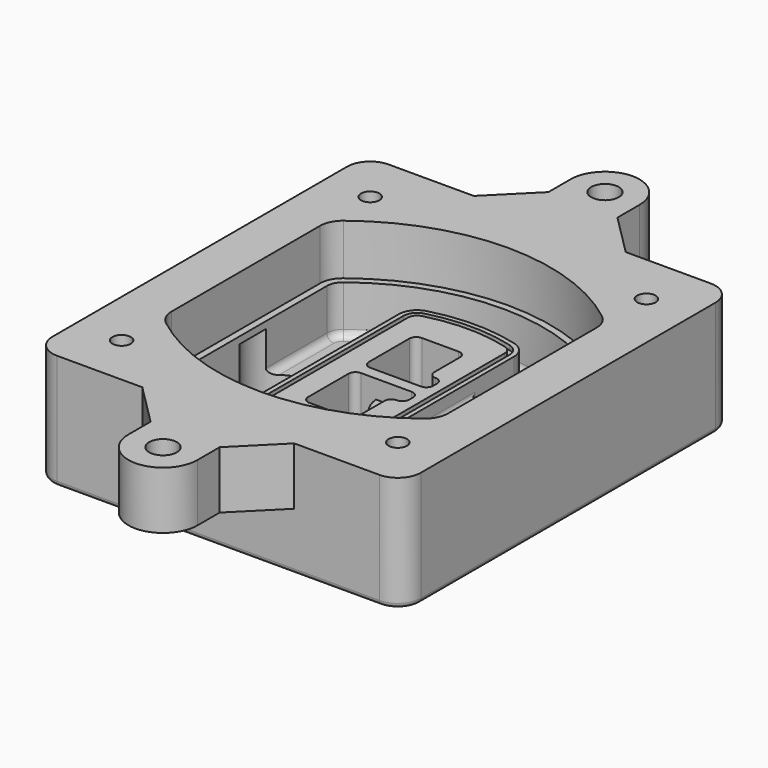
from build123d import *

# Parameters (mm, degrees)
F0_R      = 4
F1_DEPTH  = 25
F2_DEPTH  = 3
F3_DEPTH  = 18
F5_DEPTH  = 21
F6_DEPTH  = 2
F8_DEPTH  = 20
F9_DEPTH  = 16
F10_DEPTH = 25
F7_R      = 6
F7_R_2    = 4
F11_DEPTH = 6
F13_DEPTH = 9
F14_R     = 3
F15_R     = 2
F16_R     = 4
F16_R_2   = 6
F18_DEPTH = 25


with BuildPart() as f1:
    # F0 (on Top) → F1 (new body)
    with BuildSketch(Plane.XY):
        with BuildLine():
            ThreePointArc((-80, -80), (-77.0710678119, -87.0710678119), (-70, -90))
            Line((-70, -90), (70, -90))
            ThreePointArc((70, -90), (77.0710678119, -87.0710678119), (80, -80))
            Line((80, -80), (80, 80))
            ThreePointArc((80, 80), (77.0710678119, 87.0710678119), (70, 90))
            Line((70, 90), (-70, 90))
            ThreePointArc((-70, 90), (-77.0710678119, 87.0710678119), (-80, 80))
            Line((-80, 80), (-80, -80))
        make_face()
        with Locations((-60, -67.5)):
            Circle(F0_R, mode=Mode.SUBTRACT)
        with Locations((60, -67.5)):
            Circle(F0_R, mode=Mode.SUBTRACT)
        with Locations((-60, 67.5)):
            Circle(F0_R, mode=Mode.SUBTRACT)
        with BuildLine():
            ThreePointArc((-64, 40.2934422872), (-62.5820384798, 46.4328484224), (-58.6153846154, 51.3286200352))
            ThreePointArc((-58.6153846154, 51.3286200352), (0, 71.5), (58.6153846154, 51.3286200352))
            ThreePointArc((58.6153846154, 51.3286200352), (62.5820384798, 46.4328484224), (64, 40.2934422872))
            Line((64, 40.2934422872), (64, -40.2934422872))
            ThreePointArc((64, -40.2934422872), (62.5820384798, -46.4328484224), (58.6153846154, -51.3286200352))
            ThreePointArc((58.6153846154, -51.3286200352), (0, -71.5), (-58.6153846154, -51.3286200352))
            ThreePointArc((-58.6153846154, -51.3286200352), (-62.5820384798, -46.4328484224), (-64, -40.2934422872))
            Line((-64, -40.2934422872), (-64, 40.2934422872))
        make_face(mode=Mode.SUBTRACT)
        with Locations((60, 67.5)):
            Circle(F0_R, mode=Mode.SUBTRACT)
        with BuildLine():
            ThreePointArc((58.6153846154, 51.3286200352), (0, 71.5), (-58.6153846154, 51.3286200352))
            ThreePointArc((-58.6153846154, 51.3286200352), (-62.5820384798, 46.4328484224), (-64, 40.2934422872))
            Line((-64, 40.2934422872), (-64, -40.2934422872))
            ThreePointArc((-64, -40.2934422872), (-62.5820384798, -46.4328484224), (-58.6153846154, -51.3286200352))
            ThreePointArc((-58.6153846154, -51.3286200352), (0, -71.5), (58.6153846154, -51.3286200352))
            ThreePointArc((58.6153846154, -51.3286200352), (62.5820384798, -46.4328484224), (64, -40.2934422872))
            Line((64, -40.2934422872), (64, 40.2934422872))
            ThreePointArc((64, 40.2934422872), (62.5820384798, 46.4328484224), (58.6153846154, 51.3286200352))
        make_face()
        with BuildLine():
            Line((-60, -40.2934422872), (-60, 40.2934422872))
            ThreePointArc((-60, 40.2934422872), (-58.9871703427, 44.6787323838), (-56.1538461538, 48.1757121072))
            ThreePointArc((-56.1538461538, 48.1757121072), (0, 67.5), (56.1538461538, 48.1757121072))
            ThreePointArc((56.1538461538, 48.1757121072), (58.9871703427, 44.6787323838), (60, 40.2934422872))
            Line((60, 40.2934422872), (60, -40.2934422872))
            ThreePointArc((60, -40.2934422872), (58.9871703427, -44.6787323838), (56.1538461538, -48.1757121072))
            ThreePointArc((56.1538461538, -48.1757121072), (0, -67.5), (-56.1538461538, -48.1757121072))
            ThreePointArc((-56.1538461538, -48.1757121072), (-58.9871703427, -44.6787323838), (-60, -40.2934422872))
        make_face(mode=Mode.SUBTRACT)
        with BuildLine():
            ThreePointArc((-56.1538461538, 48.1757121072), (-58.9871703427, 44.6787323838), (-60, 40.2934422872))
            Line((-60, 40.2934422872), (-60, -40.2934422872))
            ThreePointArc((-60, -40.2934422872), (-58.9871703427, -44.6787323838), (-56.1538461538, -48.1757121072))
            ThreePointArc((-56.1538461538, -48.1757121072), (0, -67.5), (56.1538461538, -48.1757121072))
            ThreePointArc((56.1538461538, -48.1757121072), (58.9871703427, -44.6787323838), (60, -40.2934422872))
            Line((60, -40.2934422872), (60, 40.2934422872))
            ThreePointArc((60, 40.2934422872), (58.9871703427, 44.6787323838), (56.1538461538, 48.1757121072))
            ThreePointArc((56.1538461538, 48.1757121072), (0, 67.5), (-56.1538461538, 48.1757121072))
        make_face()
        with BuildLine():
            ThreePointArc((54.3076923077, 45.8110311612), (56.2910192399, 43.3631453548), (57, 40.2934422872))
            Line((57, 40.2934422872), (57, -40.2934422872))
            ThreePointArc((57, -40.2934422872), (56.2910192399, -43.3631453548), (54.3076923077, -45.8110311612))
            ThreePointArc((54.3076923077, -45.8110311612), (0, -64.5), (-54.3076923077, -45.8110311612))
            ThreePointArc((-54.3076923077, -45.8110311612), (-56.2910192399, -43.3631453548), (-57, -40.2934422872))
            Line((-57, -40.2934422872), (-57, 40.2934422872))
            ThreePointArc((-57, 40.2934422872), (-56.2910192399, 43.3631453548), (-54.3076923077, 45.8110311612))
            ThreePointArc((-54.3076923077, 45.8110311612), (0, 64.5), (54.3076923077, 45.8110311612))
        make_face(mode=Mode.SUBTRACT)
        with BuildLine():
            Line((57, -40.2934422872), (57, 40.2934422872))
            ThreePointArc((57, 40.2934422872), (56.2910192399, 43.3631453548), (54.3076923077, 45.8110311612))
            ThreePointArc((54.3076923077, 45.8110311612), (0, 64.5), (-54.3076923077, 45.8110311612))
            ThreePointArc((-54.3076923077, 45.8110311612), (-56.2910192399, 43.3631453548), (-57, 40.2934422872))
            Line((-57, 40.2934422872), (-57, -40.2934422872))
            ThreePointArc((-57, -40.2934422872), (-56.2910192399, -43.3631453548), (-54.3076923077, -45.8110311612))
            ThreePointArc((-54.3076923077, -45.8110311612), (0, -64.5), (54.3076923077, -45.8110311612))
            ThreePointArc((54.3076923077, -45.8110311612), (56.2910192399, -43.3631453548), (57, -40.2934422872))
        make_face()
    extrude(amount=-F1_DEPTH)

    # F0 (on Top) → F2 (join)
    with BuildSketch(Plane.XY):
        with BuildLine():
            ThreePointArc((-56.1538461538, 48.1757121072), (-58.9871703427, 44.6787323838), (-60, 40.2934422872))
            Line((-60, 40.2934422872), (-60, -40.2934422872))
            ThreePointArc((-60, -40.2934422872), (-58.9871703427, -44.6787323838), (-56.1538461538, -48.1757121072))
            ThreePointArc((-56.1538461538, -48.1757121072), (0, -67.5), (56.1538461538, -48.1757121072))
            ThreePointArc((56.1538461538, -48.1757121072), (58.9871703427, -44.6787323838), (60, -40.2934422872))
            Line((60, -40.2934422872), (60, 40.2934422872))
            ThreePointArc((60, 40.2934422872), (58.9871703427, 44.6787323838), (56.1538461538, 48.1757121072))
            ThreePointArc((56.1538461538, 48.1757121072), (0, 67.5), (-56.1538461538, 48.1757121072))
        make_face()
        with BuildLine():
            ThreePointArc((54.3076923077, 45.8110311612), (56.2910192399, 43.3631453548), (57, 40.2934422872))
            Line((57, 40.2934422872), (57, -40.2934422872))
            ThreePointArc((57, -40.2934422872), (56.2910192399, -43.3631453548), (54.3076923077, -45.8110311612))
            ThreePointArc((54.3076923077, -45.8110311612), (0, -64.5), (-54.3076923077, -45.8110311612))
            ThreePointArc((-54.3076923077, -45.8110311612), (-56.2910192399, -43.3631453548), (-57, -40.2934422872))
            Line((-57, -40.2934422872), (-57, 40.2934422872))
            ThreePointArc((-57, 40.2934422872), (-56.2910192399, 43.3631453548), (-54.3076923077, 45.8110311612))
            ThreePointArc((-54.3076923077, 45.8110311612), (0, 64.5), (54.3076923077, 45.8110311612))
        make_face(mode=Mode.SUBTRACT)
    extrude(amount=F2_DEPTH)

    # F0 (on Top) → F3 (cut)
    with BuildSketch(Plane.XY):
        with BuildLine():
            Line((57, -40.2934422872), (57, 40.2934422872))
            ThreePointArc((57, 40.2934422872), (56.2910192399, 43.3631453548), (54.3076923077, 45.8110311612))
            ThreePointArc((54.3076923077, 45.8110311612), (0, 64.5), (-54.3076923077, 45.8110311612))
            ThreePointArc((-54.3076923077, 45.8110311612), (-56.2910192399, 43.3631453548), (-57, 40.2934422872))
            Line((-57, 40.2934422872), (-57, -40.2934422872))
            ThreePointArc((-57, -40.2934422872), (-56.2910192399, -43.3631453548), (-54.3076923077, -45.8110311612))
            ThreePointArc((-54.3076923077, -45.8110311612), (0, -64.5), (54.3076923077, -45.8110311612))
            ThreePointArc((54.3076923077, -45.8110311612), (56.2910192399, -43.3631453548), (57, -40.2934422872))
        make_face()
    extrude(amount=-F3_DEPTH, mode=Mode.SUBTRACT)

    # F4 (on face) → F5 (join, through all)
    with BuildSketch(Plane.XY.offset(3)):
        with BuildLine():
            ThreePointArc((-25, -39.2465276821), (-23.3511545998, -44.1109737193), (-19.0842911877, -46.9702398883))
            ThreePointArc((-19.0842911877, -46.9702398883), (0, -49.5), (19.0842911877, -46.9702398883))
            ThreePointArc((19.0842911877, -46.9702398883), (23.3511545998, -44.1109737193), (25, -39.2465276821))
            Line((25, -39.2465276821), (25, 39.2465276821))
            ThreePointArc((25, 39.2465276821), (23.3511545998, 44.1109737193), (19.0842911877, 46.9702398883))
            ThreePointArc((19.0842911877, 46.9702398883), (0, 49.5), (-19.0842911877, 46.9702398883))
            ThreePointArc((-19.0842911877, 46.9702398883), (-23.3511545998, 44.1109737193), (-25, 39.2465276821))
            Line((-25, 39.2465276821), (-25, -39.2465276821))
        make_face()
        with BuildLine():
            ThreePointArc((18.5632183908, 45.0393118368), (21.7633659499, 42.89486221), (23, 39.2465276821))
            Line((23, 39.2465276821), (23, -39.2465276821))
            ThreePointArc((23, -39.2465276821), (21.7633659499, -42.89486221), (18.5632183908, -45.0393118368))
            ThreePointArc((18.5632183908, -45.0393118368), (0, -47.5), (-18.5632183908, -45.0393118368))
            ThreePointArc((-18.5632183908, -45.0393118368), (-21.7633659499, -42.89486221), (-23, -39.2465276821))
            Line((-23, -39.2465276821), (-23, 39.2465276821))
            ThreePointArc((-23, 39.2465276821), (-21.7633659499, 42.89486221), (-18.5632183908, 45.0393118368))
            ThreePointArc((-18.5632183908, 45.0393118368), (0, 47.5), (18.5632183908, 45.0393118368))
        make_face(mode=Mode.SUBTRACT)
        with BuildLine():
            Line((23, -39.2465276821), (23, 39.2465276821))
            ThreePointArc((23, 39.2465276821), (21.7633659499, 42.89486221), (18.5632183908, 45.0393118368))
            ThreePointArc((18.5632183908, 45.0393118368), (0, 47.5), (-18.5632183908, 45.0393118368))
            ThreePointArc((-18.5632183908, 45.0393118368), (-21.7633659499, 42.89486221), (-23, 39.2465276821))
            Line((-23, 39.2465276821), (-23, -39.2465276821))
            ThreePointArc((-23, -39.2465276821), (-21.7633659499, -42.89486221), (-18.5632183908, -45.0393118368))
            ThreePointArc((-18.5632183908, -45.0393118368), (0, -47.5), (18.5632183908, -45.0393118368))
            ThreePointArc((18.5632183908, -45.0393118368), (21.7633659499, -42.89486221), (23, -39.2465276821))
        make_face()
        with BuildLine():
            ThreePointArc((18.0421455939, 43.1083837852), (20.1755772999, 41.6787507007), (21, 39.2465276821))
            Line((21, 39.2465276821), (21, -39.2465276821))
            ThreePointArc((21, -39.2465276821), (20.1755772999, -41.6787507007), (18.0421455939, -43.1083837852))
            ThreePointArc((18.0421455939, -43.1083837852), (0, -45.5), (-18.0421455939, -43.1083837852))
            ThreePointArc((-18.0421455939, -43.1083837852), (-20.1755772999, -41.6787507007), (-21, -39.2465276821))
            Line((-21, -39.2465276821), (-21, 39.2465276821))
            ThreePointArc((-21, 39.2465276821), (-20.1755772999, 41.6787507007), (-18.0421455939, 43.1083837852))
            ThreePointArc((-18.0421455939, 43.1083837852), (0, 45.5), (18.0421455939, 43.1083837852))
        make_face(mode=Mode.SUBTRACT)
        with BuildLine():
            Line((21, -39.2465276821), (21, 39.2465276821))
            ThreePointArc((21, 39.2465276821), (20.1755772999, 41.6787507007), (18.0421455939, 43.1083837852))
            ThreePointArc((18.0421455939, 43.1083837852), (0, 45.5), (-18.0421455939, 43.1083837852))
            ThreePointArc((-18.0421455939, 43.1083837852), (-20.1755772999, 41.6787507007), (-21, 39.2465276821))
            Line((-21, 39.2465276821), (-21, -39.2465276821))
            ThreePointArc((-21, -39.2465276821), (-20.1755772999, -41.6787507007), (-18.0421455939, -43.1083837852))
            ThreePointArc((-18.0421455939, -43.1083837852), (0, -45.5), (18.0421455939, -43.1083837852))
            ThreePointArc((18.0421455939, -43.1083837852), (20.1755772999, -41.6787507007), (21, -39.2465276821))
        make_face()
        with BuildLine():
            Line((-8, -2.5), (14, -2.5))
            ThreePointArc((14, -2.5), (16.1213203436, -3.3786796564), (17, -5.5))
            Line((17, -5.5), (17, -7.5))
            ThreePointArc((17, -7.5), (16.1213203436, -9.6213203436), (14, -10.5))
            ThreePointArc((14, -10.5), (11.8786796564, -11.3786796564), (11, -13.5))
            Line((11, -13.5), (11, -27.5))
            ThreePointArc((11, -27.5), (10.1213203436, -29.6213203436), (8, -30.5))
            Line((8, -30.5), (-8, -30.5))
            ThreePointArc((-8, -30.5), (-10.1213203436, -29.6213203436), (-11, -27.5))
            Line((-11, -27.5), (-11, -5.5))
            ThreePointArc((-11, -5.5), (-10.1213203436, -3.3786796564), (-8, -2.5))
        make_face(mode=Mode.SUBTRACT)
        with BuildLine():
            ThreePointArc((-8, 2.5), (-10.1213203436, 3.3786796564), (-11, 5.5))
            Line((-11, 5.5), (-11, 27.5))
            ThreePointArc((-11, 27.5), (-10.1213203436, 29.6213203436), (-8, 30.5))
            Line((-8, 30.5), (8, 30.5))
            ThreePointArc((8, 30.5), (10.1213203436, 29.6213203436), (11, 27.5))
            Line((11, 27.5), (11, 13.5))
            ThreePointArc((11, 13.5), (11.8786796564, 11.3786796564), (14, 10.5))
            ThreePointArc((14, 10.5), (16.1213203436, 9.6213203436), (17, 7.5))
            Line((17, 7.5), (17, 5.5))
            ThreePointArc((17, 5.5), (16.1213203436, 3.3786796564), (14, 2.5))
            Line((14, 2.5), (-8, 2.5))
        make_face(mode=Mode.SUBTRACT)
    extrude(amount=-F5_DEPTH)

    # F4 (on face) → F6 (cut)
    with BuildSketch(Plane.XY.offset(3)):
        with BuildLine():
            Line((23, -39.2465276821), (23, 39.2465276821))
            ThreePointArc((23, 39.2465276821), (21.7633659499, 42.89486221), (18.5632183908, 45.0393118368))
            ThreePointArc((18.5632183908, 45.0393118368), (0, 47.5), (-18.5632183908, 45.0393118368))
            ThreePointArc((-18.5632183908, 45.0393118368), (-21.7633659499, 42.89486221), (-23, 39.2465276821))
            Line((-23, 39.2465276821), (-23, -39.2465276821))
            ThreePointArc((-23, -39.2465276821), (-21.7633659499, -42.89486221), (-18.5632183908, -45.0393118368))
            ThreePointArc((-18.5632183908, -45.0393118368), (0, -47.5), (18.5632183908, -45.0393118368))
            ThreePointArc((18.5632183908, -45.0393118368), (21.7633659499, -42.89486221), (23, -39.2465276821))
        make_face()
        with BuildLine():
            ThreePointArc((18.0421455939, 43.1083837852), (20.1755772999, 41.6787507007), (21, 39.2465276821))
            Line((21, 39.2465276821), (21, -39.2465276821))
            ThreePointArc((21, -39.2465276821), (20.1755772999, -41.6787507007), (18.0421455939, -43.1083837852))
            ThreePointArc((18.0421455939, -43.1083837852), (0, -45.5), (-18.0421455939, -43.1083837852))
            ThreePointArc((-18.0421455939, -43.1083837852), (-20.1755772999, -41.6787507007), (-21, -39.2465276821))
            Line((-21, -39.2465276821), (-21, 39.2465276821))
            ThreePointArc((-21, 39.2465276821), (-20.1755772999, 41.6787507007), (-18.0421455939, 43.1083837852))
            ThreePointArc((-18.0421455939, 43.1083837852), (0, 45.5), (18.0421455939, 43.1083837852))
        make_face(mode=Mode.SUBTRACT)
    extrude(amount=-F6_DEPTH, mode=Mode.SUBTRACT)

    # F7 (on face) → F8 (join)
    with BuildSketch(Plane(origin=(0, 0, -25), x_dir=(1, 0, 0), z_dir=(0, 0, -1))):
        with BuildLine():
            ThreePointArc((3.28842436, 0), (16.7567035675, 13.4682792075), (30.224982775, 0))
            Line((30.224982775, 0), (35.224982775, 0))
            ThreePointArc((35.224982775, 0), (16.7567035675, 18.4682792075), (-1.71157564, 0))
            Line((-1.71157564, 0), (3.28842436, 0))
        make_face()
        with BuildLine():
            Line((3.28842436, 0), (30.224982775, 0))
            ThreePointArc((30.224982775, 0), (16.7567035675, 13.4682792075), (3.28842436, 0))
        make_face()
        with BuildLine():
            ThreePointArc((3.28842436, 0), (16.7567035675, -13.4682792075), (30.224982775, 0))
            Line((30.224982775, 0), (3.28842436, 0))
        make_face()
        with BuildLine():
            Line((35.224982775, 0), (30.224982775, 0))
            ThreePointArc((30.224982775, 0), (16.7567035675, -13.4682792075), (3.28842436, 0))
            Line((3.28842436, 0), (-1.71157564, 0))
            ThreePointArc((-1.71157564, 0), (16.7567035675, -18.4682792075), (35.224982775, 0))
        make_face()
    extrude(amount=-F8_DEPTH)

    # F7 (on face) → F9 (cut)
    with BuildSketch(Plane(origin=(0, 0, -25), x_dir=(1, 0, 0), z_dir=(0, 0, -1))):
        with BuildLine():
            Line((3.28842436, 0), (30.224982775, 0))
            ThreePointArc((30.224982775, 0), (16.7567035675, 13.4682792075), (3.28842436, 0))
        make_face()
        with BuildLine():
            ThreePointArc((3.28842436, 0), (16.7567035675, -13.4682792075), (30.224982775, 0))
            Line((30.224982775, 0), (3.28842436, 0))
        make_face()
    extrude(amount=-F9_DEPTH, mode=Mode.SUBTRACT)

    # F7 (on face) → F10 (cut)
    with BuildSketch(Plane(origin=(0, 0, -25), x_dir=(1, 0, 0), z_dir=(0, 0, -1))):
        with BuildLine():
            Line((-59.0318229325, 0), (-32.0952645175, 0))
            ThreePointArc((-32.0952645175, 0), (-45.563543725, 13.4682792075), (-59.0318229325, 0))
        make_face()
        with BuildLine():
            ThreePointArc((-59.0318229325, 0), (-45.563543725, -13.4682792075), (-32.0952645175, 0))
            Line((-32.0952645175, 0), (-59.0318229325, 0))
        make_face()
    extrude(amount=-F10_DEPTH, mode=Mode.SUBTRACT)

    # F7 (on face) → F11 (cut)
    with BuildSketch(Plane(origin=(0, 0, -25), x_dir=(1, 0, 0), z_dir=(0, 0, -1))):
        with Locations((60, -67.5)):
            Circle(F7_R)
        with Locations((60, -67.5)):
            Circle(F7_R_2, mode=Mode.SUBTRACT)
        with Locations((60, -67.5)):
            Circle(F7_R)
        with Locations((60, -67.5)):
            Circle(F7_R_2, mode=Mode.SUBTRACT)
        with Locations((-60, -67.5)):
            Circle(F7_R)
        with Locations((-60, -67.5)):
            Circle(F7_R_2, mode=Mode.SUBTRACT)
        with Locations((-60, -67.5)):
            Circle(F7_R)
        with Locations((-60, -67.5)):
            Circle(F7_R_2, mode=Mode.SUBTRACT)
        with Locations((-60, 67.5)):
            Circle(F7_R)
        with Locations((-60, 67.5)):
            Circle(F7_R_2, mode=Mode.SUBTRACT)
        with Locations((-60, 67.5)):
            Circle(F7_R)
        with Locations((-60, 67.5)):
            Circle(F7_R_2, mode=Mode.SUBTRACT)
        with Locations((60, 67.5)):
            Circle(F7_R)
        with Locations((60, 67.5)):
            Circle(F7_R_2, mode=Mode.SUBTRACT)
        with Locations((60, 67.5)):
            Circle(F7_R)
        with Locations((60, 67.5)):
            Circle(F7_R_2, mode=Mode.SUBTRACT)
    extrude(amount=-F11_DEPTH, mode=Mode.SUBTRACT)

    # F12 (on face) → F13 (cut, through all)
    with BuildSketch(Plane(origin=(0, 0, -9), x_dir=(1, 0, 0), z_dir=(0, 0, -1))):
        with BuildLine():
            Line((11, 13.5), (11, 17.5481537753))
            ThreePointArc((11, 17.5481537753), (2.5696536419, 11.8239143813), (-1.5415842455, 2.5))
            Line((-1.5415842455, 2.5), (3.5224848595, 2.5))
            ThreePointArc((3.5224848595, 2.5), (6.1857188154, 8.3455872281), (11.2536447004, 12.2927168648))
            ThreePointArc((11.2536447004, 12.2927168648), (11.0640958889, 12.8831798879), (11, 13.5))
        make_face()
        with BuildLine():
            ThreePointArc((11.2536447004, -12.2927168648), (6.1857188154, -8.3455872281), (3.5224848595, -2.5))
            Line((3.5224848595, -2.5), (-1.5415842455, -2.5))
            ThreePointArc((-1.5415842455, -2.5), (2.5696536419, -11.8239143813), (11, -17.5481537753))
            Line((11, -17.5481537753), (11, -13.5))
            ThreePointArc((11, -13.5), (11.0640958889, -12.8831798879), (11.2536447004, -12.2927168648))
        make_face()
        with BuildLine():
            ThreePointArc((11.2536447004, 12.2927168648), (6.1857188154, 8.3455872281), (3.5224848595, 2.5))
            Line((3.5224848595, 2.5), (14, 2.5))
            ThreePointArc((14, 2.5), (16.1213203436, 3.3786796564), (17, 5.5))
            Line((17, 5.5), (17, 7.5))
            ThreePointArc((17, 7.5), (16.1213203436, 9.6213203436), (14, 10.5))
            ThreePointArc((14, 10.5), (12.3601599782, 10.9878446101), (11.2536447004, 12.2927168648))
        make_face()
        with BuildLine():
            Line((14, -2.5), (3.5224848595, -2.5))
            ThreePointArc((3.5224848595, -2.5), (6.1857188154, -8.3455872281), (11.2536447004, -12.2927168648))
            ThreePointArc((11.2536447004, -12.2927168648), (12.3601599782, -10.9878446101), (14, -10.5))
            ThreePointArc((14, -10.5), (16.1213203436, -9.6213203436), (17, -7.5))
            Line((17, -7.5), (17, -5.5))
            ThreePointArc((17, -5.5), (16.1213203436, -3.3786796564), (14, -2.5))
        make_face()
    extrude(amount=F13_DEPTH, mode=Mode.SUBTRACT)

    # F14
    f14_edges = [f1.edges().sort_by_distance(p)[0] for p in [
        (-57, -23.703476, -18),
        (-57, 23.703476, -18),
        (25, 0, -5),
        (25, 16.526506, -11.5),
        (25, -16.526506, -11.5),
        (25, -27.886517, -18),
        (35.224983, 0, -18),
    ]]
    fillet(f14_edges, radius=F14_R)

    # F15
    f15_edges = [f1.edges().sort_by_distance(p)[0] for p in [
        (0, -90, -25),
    ]]
    fillet(f15_edges, radius=F15_R)

    # F16 (on face) → F18 (join)
    with BuildSketch(Plane.XY):
        with BuildLine():
            Line((33, 90), (-33, 90))
            Line((-33, 90), (-70, 90))
            ThreePointArc((-70, 90), (-77.0710678119, 87.0710678119), (-80, 80))
            Line((-80, 80), (-80, -80))
            ThreePointArc((-80, -80), (-77.0710678119, -87.0710678119), (-70, -90))
            Line((-70, -90), (-33, -90))
            Line((-33, -90), (33, -90))
            Line((33, -90), (70, -90))
            ThreePointArc((70, -90), (77.0710678119, -87.0710678119), (80, -80))
            Line((80, -80), (80, 80))
            ThreePointArc((80, 80), (77.0710678119, 87.0710678119), (70, 90))
            Line((70, 90), (33, 90))
        make_face()
        with Locations((-60, -67.5)):
            Circle(F16_R, mode=Mode.SUBTRACT)
        with Locations((60, -67.5)):
            Circle(F16_R, mode=Mode.SUBTRACT)
        with Locations((-60, 67.5)):
            Circle(F16_R, mode=Mode.SUBTRACT)
        with BuildLine():
            ThreePointArc((-60, 40.2934422872), (-58.9871703427, 44.6787323838), (-56.1538461538, 48.1757121072))
            ThreePointArc((-56.1538461538, 48.1757121072), (0, 67.5), (56.1538461538, 48.1757121072))
            ThreePointArc((56.1538461538, 48.1757121072), (58.9871703427, 44.6787323838), (60, 40.2934422872))
            Line((60, 40.2934422872), (60, -40.2934422872))
            ThreePointArc((60, -40.2934422872), (58.9871703427, -44.6787323838), (56.1538461538, -48.1757121072))
            ThreePointArc((56.1538461538, -48.1757121072), (0, -67.5), (-56.1538461538, -48.1757121072))
            ThreePointArc((-56.1538461538, -48.1757121072), (-58.9871703427, -44.6787323838), (-60, -40.2934422872))
            Line((-60, -40.2934422872), (-60, 40.2934422872))
        make_face(mode=Mode.SUBTRACT)
        with Locations((60, 67.5)):
            Circle(F16_R, mode=Mode.SUBTRACT)
        with BuildLine():
            Line((-15, 108), (-33, 90))
            Line((-33, 90), (33, 90))
            Line((33, 90), (15, 108))
            Line((15, 108), (15, 120))
            ThreePointArc((15, 120), (0, 135), (-15, 120))
            Line((-15, 120), (-15, 108))
        make_face()
        with Locations((0, 120)):
            Circle(F16_R_2, mode=Mode.SUBTRACT)
        with BuildLine():
            Line((33, -90), (-33, -90))
            Line((-33, -90), (-15, -108))
            Line((-15, -108), (-15, -120))
            ThreePointArc((-15, -120), (0, -135), (15, -120))
            Line((15, -120), (15, -108))
            Line((15, -108), (33, -90))
        make_face()
        with Locations((0, -120)):
            Circle(F16_R_2, mode=Mode.SUBTRACT)
    extrude(amount=F18_DEPTH)


solid = f1.part
